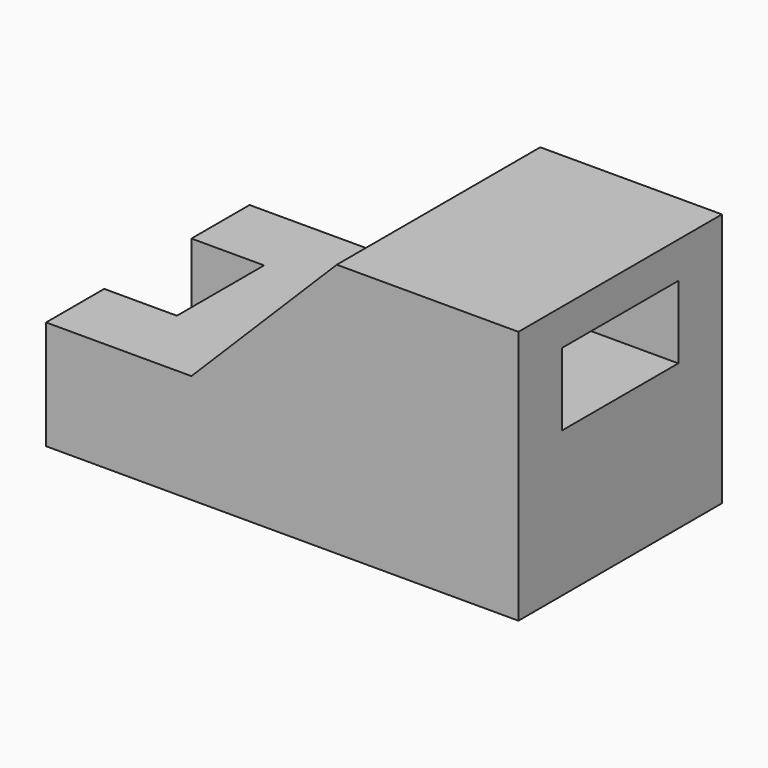
from build123d import *

# Parameters (mm, degrees)
F1_DEPTH = 70
F2_W     = 20
F2_H     = 30
F3_DEPTH = 70.001
F4_W     = 40
F4_H     = 20
F5_DEPTH = 130.001


with BuildPart() as f1:
    # F0 (on Front) → F1 (new body)
    with BuildSketch(Plane.XZ):
        Polygon((65, -35), (65, 35), (15, 35), (-25, -5), (-65, -5), (-65, -35), (-25, -35), align=None)
    extrude(amount=F1_DEPTH)

    # F2 (on face) → F3 (cut, through all)
    with BuildSketch(Plane(origin=(0, 0, -35), x_dir=(1, 0, 0), z_dir=(0, 0, -1))):
        with Locations((-55, 35)):
            Rectangle(F2_W, F2_H)
    extrude(amount=-F3_DEPTH, mode=Mode.SUBTRACT)

    # F4 (on face) → F5 (cut, through all)
    with BuildSketch(Plane.YZ.offset(65)):
        with Locations((-35, 15)):
            Rectangle(F4_W, F4_H)
    extrude(amount=-F5_DEPTH, mode=Mode.SUBTRACT)


solid = f1.part
